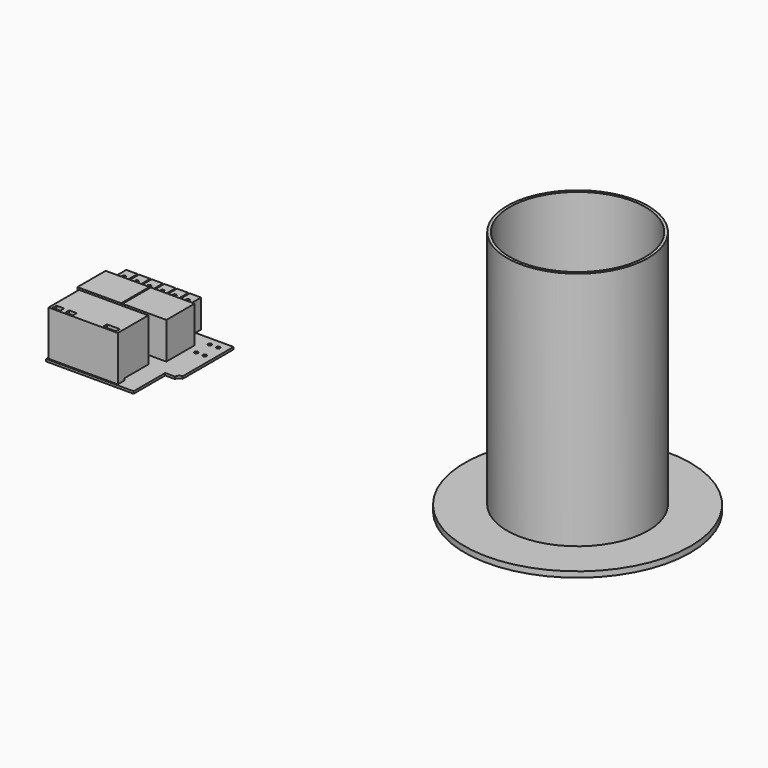
from build123d import *

# Parameters (mm, degrees)
F0_R     = 25
F0_R_2   = 24
F1_DEPTH = 85
F0_R_3   = 40
F2_DEPTH = 2
F3_W     = 24.5
F3_H     = 13.5
F3_W_2   = 15.5
F3_H_2   = 12.5
F3_R     = 0.635
F3_W_3   = 2.7
F3_H_3   = 1.7
F3_W_4   = 4.6
F3_W_5   = 4
F3_H_4   = 5.5
F3_R_2   = 0.6
F3_W_6   = 0.5
F4_DEPTH = 0.8
F5_DEPTH = 13
F3_H_5   = 2.5
F6_DEPTH = 10
F7_DEPTH = 16
F8_W     = 10.5
F8_H     = 0.7
F9_DEPTH = 25


with BuildPart() as f1:
    # F0 (on Top) → F1 (new body)
    with BuildSketch(Plane.XY):
        Circle(F0_R)
        Circle(F0_R_2, mode=Mode.SUBTRACT)
    extrude(amount=F1_DEPTH)

    # F0 (on Top) → F2 (join)
    with BuildSketch(Plane.XY):
        Circle(F0_R_3)
        Circle(F0_R, mode=Mode.SUBTRACT)
        Circle(F0_R)
        Circle(F0_R_2, mode=Mode.SUBTRACT)
    extrude(amount=-F2_DEPTH)


with BuildPart() as f4:
    # F3 (on Top) → F4 (new body)
    with BuildSketch(Plane.XY):
        with BuildLine():
            Line((-173.800483346, 14.3081960443), (-174.300483346, 14.3081960443))
            Line((-174.300483346, 14.3081960443), (-174.300483346, -9.6918039557))
            Line((-174.300483346, -9.6918039557), (-169.300483346, -9.6918039557))
            Line((-169.300483346, -9.6918039557), (-169.300483346, -23.6918039557))
            Line((-169.300483346, -23.6918039557), (-138.300483346, -23.6918039557))
            Line((-138.300483346, -23.6918039557), (-138.300483346, -9.6918039557))
            Line((-138.300483346, -9.6918039557), (-134.800483346, -9.6918039557))
            ThreePointArc((-134.800483346, -9.6918039557), (-134.3611435178, -8.6311437839), (-133.300483346, -8.1918039557))
            Line((-133.300483346, -8.1918039557), (-133.300483346, 14.3081960443))
            Line((-133.300483346, 14.3081960443), (-146.300483346, 14.3081960443))
            Line((-146.300483346, 14.3081960443), (-146.300483346, 8.8081960443))
            Line((-146.300483346, 8.8081960443), (-146.800483346, 8.8081960443))
            Line((-146.800483346, 8.8081960443), (-150.800483346, 8.8081960443))
            Line((-150.800483346, 8.8081960443), (-151.300483346, 8.8081960443))
            Line((-151.300483346, 8.8081960443), (-155.300483346, 8.8081960443))
            Line((-155.300483346, 8.8081960443), (-155.800483346, 8.8081960443))
            Line((-155.800483346, 8.8081960443), (-159.800483346, 8.8081960443))
            Line((-159.800483346, 8.8081960443), (-160.300483346, 8.8081960443))
            Line((-160.300483346, 8.8081960443), (-164.300483346, 8.8081960443))
            Line((-164.300483346, 8.8081960443), (-164.800483346, 8.8081960443))
            Line((-164.800483346, 8.8081960443), (-168.800483346, 8.8081960443))
            Line((-168.800483346, 8.8081960443), (-169.300483346, 8.8081960443))
            Line((-169.300483346, 8.8081960443), (-173.300483346, 8.8081960443))
            Line((-173.300483346, 8.8081960443), (-173.800483346, 8.8081960443))
            Line((-173.800483346, 8.8081960443), (-173.800483346, 14.3081960443))
        make_face()
        with Locations((-156.550483346, -16.4418039557)):
            Rectangle(F3_W, F3_H, mode=Mode.SUBTRACT)
        with Locations((-166.050483346, 2.0581960443)):
            Rectangle(F3_W_2, F3_H_2, mode=Mode.SUBTRACT)
        with Locations((-150.050483346, 2.0581960443)):
            Rectangle(F3_W_2, F3_H_2, mode=Mode.SUBTRACT)
        with Locations((-139.300483346, 5.3081960443)):
            Circle(F3_R, mode=Mode.SUBTRACT)
        with Locations((-136.300483346, 5.3081960443)):
            Circle(F3_R, mode=Mode.SUBTRACT)
        with Locations((-139.300483346, 11.3081960443)):
            Circle(F3_R, mode=Mode.SUBTRACT)
        with Locations((-136.300483346, 11.3081960443)):
            Circle(F3_R, mode=Mode.SUBTRACT)
        with Locations((-156.550483346, -16.4418039557)):
            Rectangle(F3_W, F3_H)
        with Locations((-166.450483346, -21.8418039557)):
            Rectangle(F3_W_3, F3_H_3, mode=Mode.SUBTRACT)
        with Locations((-161.950483346, -21.8418039557)):
            Rectangle(F3_W_3, F3_H_3, mode=Mode.SUBTRACT)
        with Locations((-147.600483346, -21.8418039557)):
            Rectangle(F3_W_4, F3_H_3, mode=Mode.SUBTRACT)
        with Locations((-166.050483346, 2.0581960443)):
            Rectangle(F3_W_2, F3_H_2)
        with Locations((-150.050483346, 2.0581960443)):
            Rectangle(F3_W_2, F3_H_2)
        with Locations((-171.300483346, 11.5581960443)):
            Rectangle(F3_W_5, F3_H_4)
        with Locations((-171.3644564152, 13.3081960443)):
            Circle(F3_R_2, mode=Mode.SUBTRACT)
        with Locations((-166.800483346, 11.5581960443)):
            Rectangle(F3_W_5, F3_H_4)
        with Locations((-166.7989343405, 13.3081960443)):
            Circle(F3_R_2, mode=Mode.SUBTRACT)
        with Locations((-162.300483346, 11.5581960443)):
            Rectangle(F3_W_5, F3_H_4)
        with Locations((-162.3377650976, 13.3081960443)):
            Circle(F3_R_2, mode=Mode.SUBTRACT)
        with Locations((-157.800483346, 11.5581960443)):
            Rectangle(F3_W_5, F3_H_4)
        with Locations((-157.7050238848, 13.3081960443)):
            Circle(F3_R_2, mode=Mode.SUBTRACT)
        with Locations((-153.300483346, 11.5581960443)):
            Rectangle(F3_W_5, F3_H_4)
        with Locations((-153.3582508564, 13.3081960443)):
            Circle(F3_R_2, mode=Mode.SUBTRACT)
        with Locations((-148.800483346, 11.5581960443)):
            Rectangle(F3_W_5, F3_H_4)
        with Locations((-148.7255096436, 13.3081960443)):
            Circle(F3_R_2, mode=Mode.SUBTRACT)
        with Locations((-173.550483346, 11.5581960443)):
            Rectangle(F3_W_6, F3_H_4)
        with Locations((-169.050483346, 11.5581960443)):
            Rectangle(F3_W_6, F3_H_4)
        with Locations((-164.550483346, 11.5581960443)):
            Rectangle(F3_W_6, F3_H_4)
        with Locations((-160.050483346, 11.5581960443)):
            Rectangle(F3_W_6, F3_H_4)
        with Locations((-155.550483346, 11.5581960443)):
            Rectangle(F3_W_6, F3_H_4)
        with Locations((-151.050483346, 11.5581960443)):
            Rectangle(F3_W_6, F3_H_4)
        with Locations((-146.550483346, 11.5581960443)):
            Rectangle(F3_W_6, F3_H_4)
    extrude(amount=-F4_DEPTH)

    # F3 (on Top) → F5 (join)
    with BuildSketch(Plane.XY):
        with Locations((-166.050483346, 2.0581960443)):
            Rectangle(F3_W_2, F3_H_2)
        with Locations((-150.050483346, 2.0581960443)):
            Rectangle(F3_W_2, F3_H_2)
    extrude(amount=F5_DEPTH)

    # F3 (on Top) → F6 (join)
    with BuildSketch(Plane.XY):
        with Locations((-171.300483346, 11.5581960443)):
            Rectangle(F3_W_5, F3_H_4)
        with Locations((-171.3644564152, 13.3081960443)):
            Circle(F3_R_2, mode=Mode.SUBTRACT)
        with Locations((-171.300483346, 15.5581960443)):
            Rectangle(F3_W_5, F3_H_5)
        with Locations((-166.800483346, 15.5581960443)):
            Rectangle(F3_W_5, F3_H_5)
        with Locations((-166.800483346, 11.5581960443)):
            Rectangle(F3_W_5, F3_H_4)
        with Locations((-166.7989343405, 13.3081960443)):
            Circle(F3_R_2, mode=Mode.SUBTRACT)
        with Locations((-162.300483346, 15.5581960443)):
            Rectangle(F3_W_5, F3_H_5)
        with Locations((-162.300483346, 11.5581960443)):
            Rectangle(F3_W_5, F3_H_4)
        with Locations((-162.3377650976, 13.3081960443)):
            Circle(F3_R_2, mode=Mode.SUBTRACT)
        with Locations((-157.800483346, 11.5581960443)):
            Rectangle(F3_W_5, F3_H_4)
        with Locations((-157.7050238848, 13.3081960443)):
            Circle(F3_R_2, mode=Mode.SUBTRACT)
        with Locations((-157.800483346, 15.5581960443)):
            Rectangle(F3_W_5, F3_H_5)
        with Locations((-153.300483346, 11.5581960443)):
            Rectangle(F3_W_5, F3_H_4)
        with Locations((-153.3582508564, 13.3081960443)):
            Circle(F3_R_2, mode=Mode.SUBTRACT)
        with Locations((-153.300483346, 15.5581960443)):
            Rectangle(F3_W_5, F3_H_5)
        with Locations((-148.800483346, 15.5581960443)):
            Rectangle(F3_W_5, F3_H_5)
        with Locations((-148.800483346, 11.5581960443)):
            Rectangle(F3_W_5, F3_H_4)
        with Locations((-148.7255096436, 13.3081960443)):
            Circle(F3_R_2, mode=Mode.SUBTRACT)
    extrude(amount=F6_DEPTH)

    # F3 (on Top) → F7 (join)
    with BuildSketch(Plane.XY):
        with Locations((-156.550483346, -16.4418039557)):
            Rectangle(F3_W, F3_H)
        with Locations((-166.450483346, -21.8418039557)):
            Rectangle(F3_W_3, F3_H_3, mode=Mode.SUBTRACT)
        with Locations((-161.950483346, -21.8418039557)):
            Rectangle(F3_W_3, F3_H_3, mode=Mode.SUBTRACT)
        with Locations((-147.600483346, -21.8418039557)):
            Rectangle(F3_W_4, F3_H_3, mode=Mode.SUBTRACT)
    extrude(amount=F7_DEPTH)

    # F8 (on face) → F9 (cut)
    with BuildSketch(Plane.YZ.offset(-144.300483346)):
        with Locations((-14.9418039557, 0.35)):
            Rectangle(F8_W, F8_H)
    extrude(amount=-F9_DEPTH, mode=Mode.SUBTRACT)


solid = Compound([f1.part, f4.part])
